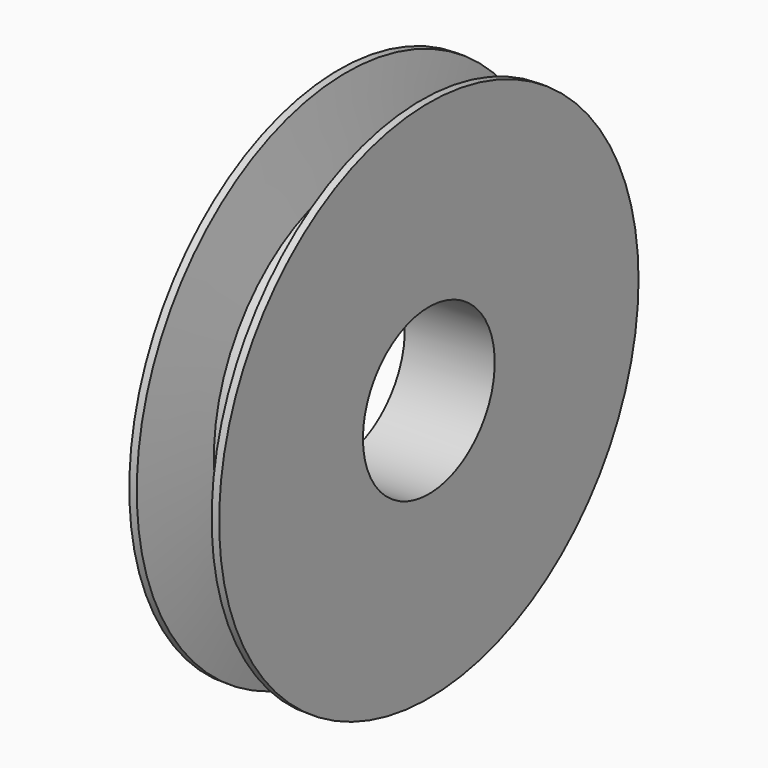
from build123d import *

# Parameters (mm, degrees)
SKETCH001_R  = 11
POCKET_DEPTH = 12.001


with BuildPart() as part:
    # Sketch → Revolution (revolve)
    with BuildSketch(Plane.XY):
        Polygon((-6, 0), (6, 0), (6, 35), (5, 35), (3.5, 24), (-3.5, 24), (-5, 35), (-6, 35), align=None)
    revolve(axis=Axis((0, 0, 0), (1, 0, 0)))

    # Sketch001 (on Face1 of Revolution) → Pocket (cut, through all)
    with BuildSketch(Plane(origin=(-6, 0, 0), x_dir=(0, -1, 0), z_dir=(-1, 0, 0))):
        Circle(SKETCH001_R)
    extrude(amount=-POCKET_DEPTH, mode=Mode.SUBTRACT)


solid = part.part
